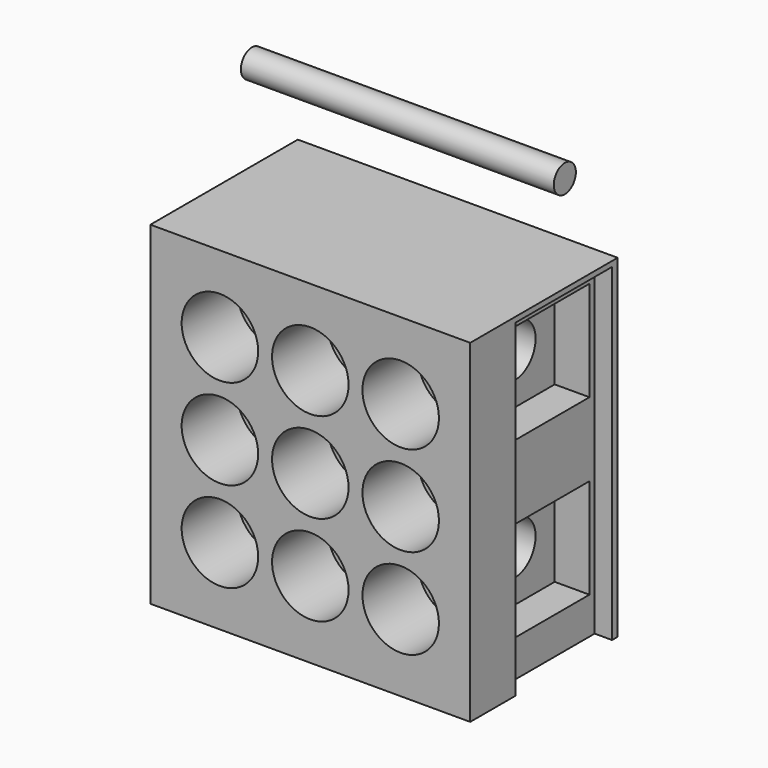
from build123d import *

# Parameters (mm, degrees)
F0_W      = 29.21
F0_H      = 30.48
F0_R      = 3.4925
F1_DEPTH  = 6.35
F2_W      = 29.21
F2_H      = 30.48
F3_DEPTH  = 10.4775
F4_W      = 11
F4_H      = 30
F5_DEPTH  = 1.5875
F6_W      = 11
F6_H      = 30
F7_DEPTH  = 1.5875
F8_R      = 2.38125
F9_DEPTH  = 27.6235
F10_W     = 9.128126
F10_H     = 9.128125
F12_DEPTH = 3.175
F13_DEPTH = 3.175
F14_R     = 1.260545
F15_DEPTH = 28.575


with BuildPart() as f1:
    # F0 (on Front) → F1 (new body)
    with BuildSketch(Plane.XZ):
        with Locations((-14.605, 15.24)):
            Rectangle(F0_W, F0_H)
        with Locations((-22.86, 6.985)):
            Circle(F0_R, mode=Mode.SUBTRACT)
        with Locations((-14.605, 6.985)):
            Circle(F0_R, mode=Mode.SUBTRACT)
        with Locations((-6.35, 6.985)):
            Circle(F0_R, mode=Mode.SUBTRACT)
        with Locations((-22.86, 15.24)):
            Circle(F0_R, mode=Mode.SUBTRACT)
        with Locations((-14.605, 15.24)):
            Circle(F0_R, mode=Mode.SUBTRACT)
        with Locations((-22.86, 23.495)):
            Circle(F0_R, mode=Mode.SUBTRACT)
        with Locations((-14.605, 23.495)):
            Circle(F0_R, mode=Mode.SUBTRACT)
        with Locations((-6.35, 15.24)):
            Circle(F0_R, mode=Mode.SUBTRACT)
        with Locations((-6.35, 23.495)):
            Circle(F0_R, mode=Mode.SUBTRACT)
    extrude(amount=F1_DEPTH)

    # F2 (on face) → F3 (join)
    with BuildSketch(Plane(origin=(0, 0, 0), x_dir=(-1, 0, 0), z_dir=(0, 1, 0))):
        with Locations((14.605, 15.24)):
            Rectangle(F2_W, F2_H)
    extrude(amount=F3_DEPTH)

    # F4 (on face) → F5 (cut)
    with BuildSketch(Plane.YZ):
        with Locations((4.3425, 15)):
            Rectangle(F4_W, F4_H)
    extrude(amount=-F5_DEPTH, mode=Mode.SUBTRACT)

    # F6 (on face) → F7 (cut)
    with BuildSketch(Plane(origin=(-29.21, 0, 0), x_dir=(0, -1, 0), z_dir=(-1, 0, 0))):
        with Locations((-4.3425, 15)):
            Rectangle(F6_W, F6_H)
    extrude(amount=-F7_DEPTH, mode=Mode.SUBTRACT)

    # F8 (on face) → F9 (cut, through all)
    with BuildSketch(Plane(origin=(-27.6225, 0, 0), x_dir=(0, -1, 0), z_dir=(-1, 0, 0))):
        with Locations((-4.683125, 23.8125)):
            Circle(F8_R)
        with Locations((-4.683125, 7.9375)):
            Circle(F8_R)
    extrude(amount=-F9_DEPTH, mode=Mode.SUBTRACT)

    # F10 (on face) → F12 (cut)
    with BuildSketch(Plane(origin=(-27.6225, 0, 0), x_dir=(0, -1, 0), z_dir=(-1, 0, 0))):
        with Locations((-4.683125, 23.8125)):
            Rectangle(F10_W, F10_H)
        with Locations((-4.683125, 7.937499)):
            Rectangle(F10_W, F10_H)
    extrude(amount=-F12_DEPTH, mode=Mode.SUBTRACT)

    # F11 (on face) → F13 (cut)
    with BuildSketch(Plane.YZ.offset(-1.5875)):
        Polygon((9.247188, 28.376563), (0.119062, 28.376563), (0.119063, 19.248438), (9.247188, 19.248438), align=None)
        Polygon((9.247188, 12.501563), (0.119062, 12.501563), (0.119062, 3.373437), (9.247187, 3.373437), align=None)
    extrude(amount=-F13_DEPTH, mode=Mode.SUBTRACT)


with BuildPart() as f15:
    # F14 (on face) → F15 (new body)
    with BuildSketch(Plane.YZ):
        with Locations((4.447935, 39.295714)):
            Circle(F14_R)
    extrude(amount=-F15_DEPTH)


solid = Compound([f1.part, f15.part])
